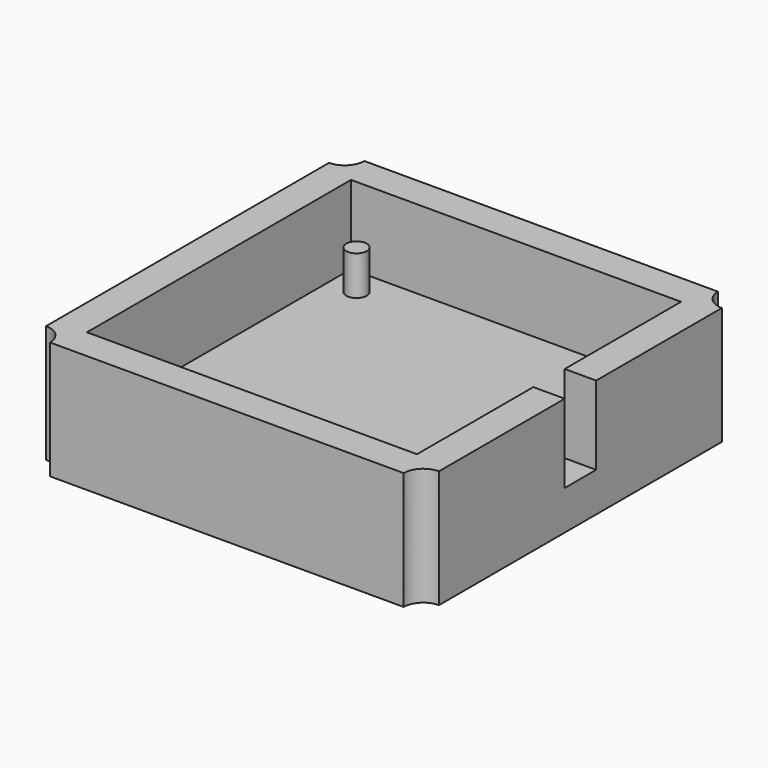
from build123d import *

# Parameters (mm, degrees)
F1_DEPTH = 5
F0_R     = 1.3
F3_DEPTH = 5
F4_DEPTH = 5


with BuildPart() as f1:
    # F0 (on Top) → F1 (new body)
    with BuildSketch(Plane.XY):
        with BuildLine():
            ThreePointArc((25, 22.5), (23.232233047, 23.232233047), (22.5, 25))
            Line((22.5, 25), (-22.5, 25))
            ThreePointArc((-22.5, 25), (-23.232233047, 23.232233047), (-25, 22.5))
            Line((-25, 22.5), (-25, -22.5))
            ThreePointArc((-25, -22.5), (-23.232233047, -23.232233047), (-22.5, -25))
            Line((-22.5, -25), (22.5, -25))
            ThreePointArc((22.5, -25), (23.232233047, -23.232233047), (25, -22.5))
            Line((25, -22.5), (25, -2.5))
            Line((25, -2.5), (21, -2.5))
            Line((21, -2.5), (21, -21))
            Line((21, -21), (-21, -21))
            Line((-21, -21), (-21, 21))
            Line((-21, 21), (21, 21))
            Line((21, 21), (21, 2.5))
            Line((21, 2.5), (25, 2.5))
            Line((25, 2.5), (25, 22.5))
        make_face()
    extrude(amount=F1_DEPTH)



with BuildPart() as f1b:
    # F0 (on Top) → F1, piece 2 (new body)
    with BuildSketch(Plane.XY):
        with Locations((-17.5, 17.5)):
            Circle(F0_R)
    extrude(amount=F1_DEPTH)


with BuildPart() as f1c:
    # F0 (on Top) → F1, piece 3 (new body)
    with BuildSketch(Plane.XY):
        with Locations((-17.5, -17.5)):
            Circle(F0_R)
    extrude(amount=F1_DEPTH)


with BuildPart() as f1d:
    # F0 (on Top) → F1, piece 4 (new body)
    with BuildSketch(Plane.XY):
        with Locations((17.5, -17.5)):
            Circle(F0_R)
    extrude(amount=F1_DEPTH)


with BuildPart() as f1e:
    # F0 (on Top) → F1, piece 5 (new body)
    with BuildSketch(Plane.XY):
        with Locations((17.5, 17.5)):
            Circle(F0_R)
    extrude(amount=F1_DEPTH)


with BuildPart() as f1_1:
    add(f1.part)

    add(f1b.part)  # F3 merges F1b

    add(f1c.part)  # F3 merges F1c

    add(f1d.part)  # F3 merges F1d

    add(f1e.part)  # F3 merges F1e
    # F2 (on face) → F3 (join)
    with BuildSketch(Plane.XY):
        with BuildLine():
            Line((-22.5, -25), (22.5, -25))
            ThreePointArc((22.5, -25), (23.232233047, -23.232233047), (25, -22.5))
            Line((25, -22.5), (25, -2.5))
            Line((25, -2.5), (21, -2.5))
            Line((21, -2.5), (21, -21))
            Line((21, -21), (-21, -21))
            Line((-21, -21), (-21, 21))
            Line((-21, 21), (21, 21))
            Line((21, 21), (21, 2.5))
            Line((21, 2.5), (25, 2.5))
            Line((25, 2.5), (25, 22.5))
            ThreePointArc((25, 22.5), (23.232233047, 23.232233047), (22.5, 25))
            Line((22.5, 25), (-22.5, 25))
            ThreePointArc((-22.5, 25), (-23.232233047, 23.232233047), (-25, 22.5))
            Line((-25, 22.5), (-25, -22.5))
            ThreePointArc((-25, -22.5), (-23.232233047, -23.232233047), (-22.5, -25))
        make_face()
        Polygon((21, -2.5), (25, -2.5), (25, 2.5), (21, 2.5), (21, 21), (-21, 21), (-21, -21), (21, -21), align=None)
    extrude(amount=-F3_DEPTH)

    # F4 (add): a face of the model
    f4_faces = [f1_1.faces().sort_by_distance(p)[0] for p in [
        (22.732233047, 22.732233047, 5),
    ]]
    extrude(f4_faces, amount=F4_DEPTH)


solid = f1_1.part
